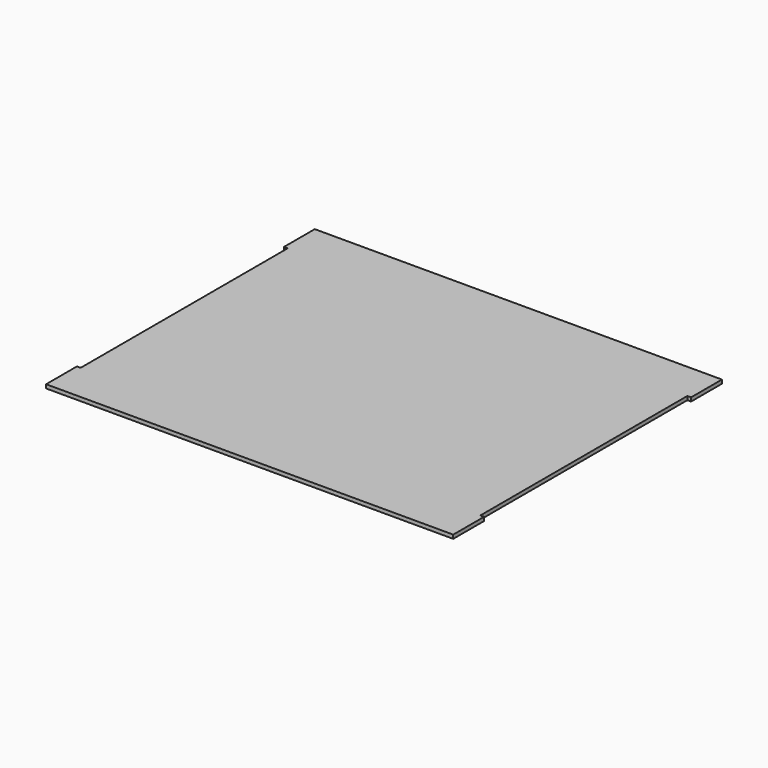
from build123d import *

# Parameters (mm, degrees)
F1_DEPTH = 4.45


with BuildPart() as f1:
    # F0 (on Top) → F1 (new body)
    with BuildSketch(Plane.XY):
        Polygon((50.26738, -154.10744), (50.26738, -200), (54.71738, -200), (530.71738, -200), (535.16738, -200), (535.16738, -154.10744), (530.71738, -154.10744), (530.71738, 154.10744), (535.16738, 154.10744), (535.16738, 200), (530.71738, 200), (54.71738, 200), (50.26738, 200), (50.26738, 154.10744), (54.71738, 154.10744), (54.71738, -154.10744), align=None)
    extrude(amount=F1_DEPTH)


solid = f1.part
